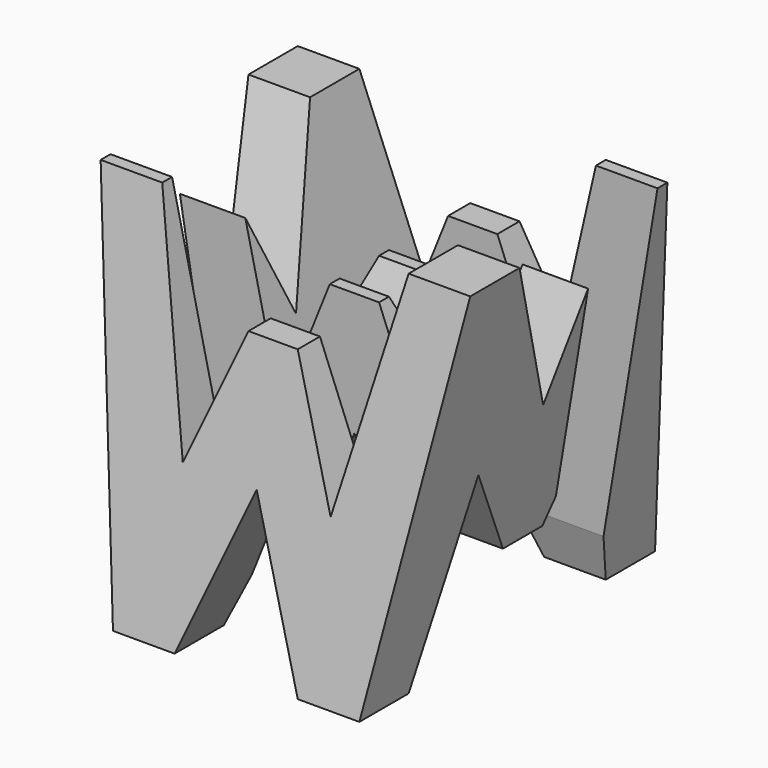
from build123d import *

# Parameters (mm, degrees)
F0_W     = 38.1
F0_H     = 38.1
F1_DEPTH = 38.1
F5_DEPTH = 38.1
F7_DEPTH = 38.1
F8_W     = 25.4
F8_H     = 7.62
F9_DEPTH = 38.1


with BuildPart() as f1:
    # F0 (on Front) → F1 (new body)
    with BuildSketch(Plane.XZ):
        with Locations((19.05, 19.05)):
            Rectangle(F0_W, F0_H)
    extrude(amount=F1_DEPTH)

    # F4 (on face) → F5 (cut)
    with BuildSketch(Plane(origin=(0, 0, 0), x_dir=(-1, 0, 0), z_dir=(0, 1, 0))):
        Polygon((-6.35, 38.1), (-31.75, 38.1), (-26.67, 15.875), (-21.59, 28.575), (-16.51, 28.575), (-11.43, 15.875), align=None)
        Polygon((-31.75, 0), (-38.1, 38.1), (-38.1, 0), align=None)
        Polygon((-19.05, 15.875), (-25.4, 0), (-12.7, 0), align=None)
        Polygon((0, 0), (0, 38.1), (-6.35, 0), align=None)
    extrude(amount=-F5_DEPTH, mode=Mode.SUBTRACT)

    # F6 (on offset) → F7 (cut)
    with BuildSketch(Plane.YZ.offset(38.1)):
        Polygon((-38.1, 38.1), (-38.1, 0), (-31.75, 38.1), align=None)
        Polygon((-19.05, 22.225), (-12.7, 38.1), (-25.4, 38.1), align=None)
        Polygon((-6.35, 38.1), (0, 0), (0, 38.1), align=None)
        Polygon((-31.75, 0), (-6.35, 0), (-11.43, 18.794186), (-16.51, 9.525), (-21.59, 9.525), (-26.67, 18.794186), align=None)
    extrude(amount=-F7_DEPTH, mode=Mode.SUBTRACT)

    # F8 (on offset) → F9 (cut)
    with BuildSketch(Plane.XY.offset(38.1)):
        with Locations((25.4, -11.43)):
            Rectangle(F8_W, F8_H)
        with Locations((12.7, -26.67)):
            Rectangle(F8_W, F8_H)
    extrude(amount=-F9_DEPTH, mode=Mode.SUBTRACT)


solid = f1.part
